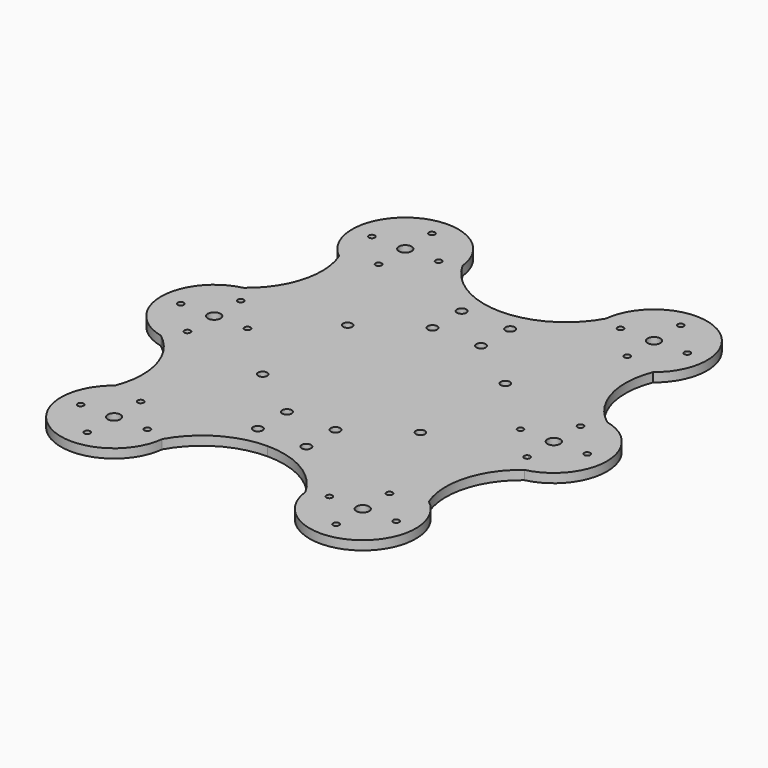
from build123d import *

# Parameters (mm, degrees)
SKETCH001_R             = 2.1
SKETCH001_R_2           = 1
SKETCH001_R_3           = 1.55
SKETCH001_R_4           = 1.5
PAD001_DEPTH            = 3
BODY001_PLACEMENT_ANGLE = 180
SKETCH_R                = 2.1
SKETCH_R_2              = 1
SKETCH_R_3              = 1.55
SKETCH_R_4              = 1.5
PAD_DEPTH               = 3


with BuildPart() as body001:
    # Sketch001 → Pad001 (new body)
    with BuildSketch(Plane.XY):
        with BuildLine():
            ThreePointArc((59.929397, -17.053147), (73.5, 0), (59.929397, 17.053147))
            ThreePointArc((51.751169, 46.191946), (50.930057, 30.24442), (59.929397, 17.053147))
            ThreePointArc((51.751169, 46.191946), (49.522386, 75.284598), (23.602068, 61.88732))
            ThreePointArc((0, 48), (13.692291, 51.729393), (23.602068, 61.88732))
            Line((0, 48), (0, -48))
            ThreePointArc((23.602068, -61.88732), (13.692291, -51.729393), (0, -48))
            ThreePointArc((23.602068, -61.88732), (49.522386, -75.284598), (51.751169, -46.191946))
            ThreePointArc((59.929397, -17.053147), (50.930057, -30.24442), (51.751169, -46.191946))
        make_face()
        with Locations((41, 60)):
            Circle(SKETCH001_R, mode=Mode.SUBTRACT)
        with Locations((56, 0)):
            Circle(SKETCH001_R, mode=Mode.SUBTRACT)
        with Locations((41, -60)):
            Circle(SKETCH001_R, mode=Mode.SUBTRACT)
        with Locations((41, 71)):
            Circle(SKETCH001_R_2, mode=Mode.SUBTRACT)
        with Locations((41, 49)):
            Circle(SKETCH001_R_2, mode=Mode.SUBTRACT)
        with Locations((52, 60)):
            Circle(SKETCH001_R_2, mode=Mode.SUBTRACT)
        with Locations((30, 60)):
            Circle(SKETCH001_R_2, mode=Mode.SUBTRACT)
        with Locations((56, 11)):
            Circle(SKETCH001_R_2, mode=Mode.SUBTRACT)
        with Locations((56, -11)):
            Circle(SKETCH001_R_2, mode=Mode.SUBTRACT)
        with Locations((67, 0)):
            Circle(SKETCH001_R_2, mode=Mode.SUBTRACT)
        with Locations((45, 0)):
            Circle(SKETCH001_R_2, mode=Mode.SUBTRACT)
        with Locations((41, -49)):
            Circle(SKETCH001_R_2, mode=Mode.SUBTRACT)
        with Locations((41, -71)):
            Circle(SKETCH001_R_2, mode=Mode.SUBTRACT)
        with Locations((52, -60)):
            Circle(SKETCH001_R_2, mode=Mode.SUBTRACT)
        with Locations((30, -60)):
            Circle(SKETCH001_R_2, mode=Mode.SUBTRACT)
        with Locations((8, -42)):
            Circle(SKETCH001_R_3, mode=Mode.SUBTRACT)
        with Locations((8, -30)):
            Circle(SKETCH001_R_3, mode=Mode.SUBTRACT)
        with Locations((8, 30)):
            Circle(SKETCH001_R_3, mode=Mode.SUBTRACT)
        with Locations((8, 42)):
            Circle(SKETCH001_R_3, mode=Mode.SUBTRACT)
        with Locations((26, 17.5)):
            Circle(SKETCH001_R_4, mode=Mode.SUBTRACT)
        with Locations((26, -17.5)):
            Circle(SKETCH001_R_4, mode=Mode.SUBTRACT)
    extrude(amount=PAD001_DEPTH)


with BuildPart() as body001_1:
    # Body001 placement: moved
    add(body001.part.rotate(Axis((0, 0, 0), (0, 0, 1)), BODY001_PLACEMENT_ANGLE))


with BuildPart() as fusion:
    # Sketch → Pad (new body)
    with BuildSketch(Plane.XY):
        with BuildLine():
            ThreePointArc((59.929397, -17.053147), (73.5, 0), (59.929397, 17.053147))
            ThreePointArc((51.751169, 46.191946), (50.930057, 30.24442), (59.929397, 17.053147))
            ThreePointArc((51.751169, 46.191946), (49.522386, 75.284598), (23.602068, 61.88732))
            ThreePointArc((0, 48), (13.692291, 51.729393), (23.602068, 61.88732))
            Line((0, 48), (0, -48))
            ThreePointArc((23.602068, -61.88732), (13.692291, -51.729393), (0, -48))
            ThreePointArc((23.602068, -61.88732), (49.522386, -75.284598), (51.751169, -46.191946))
            ThreePointArc((59.929397, -17.053147), (50.930057, -30.24442), (51.751169, -46.191946))
        make_face()
        with Locations((41, 60)):
            Circle(SKETCH_R, mode=Mode.SUBTRACT)
        with Locations((56, 0)):
            Circle(SKETCH_R, mode=Mode.SUBTRACT)
        with Locations((41, -60)):
            Circle(SKETCH_R, mode=Mode.SUBTRACT)
        with Locations((41, 71)):
            Circle(SKETCH_R_2, mode=Mode.SUBTRACT)
        with Locations((41, 49)):
            Circle(SKETCH_R_2, mode=Mode.SUBTRACT)
        with Locations((52, 60)):
            Circle(SKETCH_R_2, mode=Mode.SUBTRACT)
        with Locations((30, 60)):
            Circle(SKETCH_R_2, mode=Mode.SUBTRACT)
        with Locations((56, 11)):
            Circle(SKETCH_R_2, mode=Mode.SUBTRACT)
        with Locations((56, -11)):
            Circle(SKETCH_R_2, mode=Mode.SUBTRACT)
        with Locations((67, 0)):
            Circle(SKETCH_R_2, mode=Mode.SUBTRACT)
        with Locations((45, 0)):
            Circle(SKETCH_R_2, mode=Mode.SUBTRACT)
        with Locations((41, -49)):
            Circle(SKETCH_R_2, mode=Mode.SUBTRACT)
        with Locations((41, -71)):
            Circle(SKETCH_R_2, mode=Mode.SUBTRACT)
        with Locations((52, -60)):
            Circle(SKETCH_R_2, mode=Mode.SUBTRACT)
        with Locations((30, -60)):
            Circle(SKETCH_R_2, mode=Mode.SUBTRACT)
        with Locations((8, -42)):
            Circle(SKETCH_R_3, mode=Mode.SUBTRACT)
        with Locations((8, -30)):
            Circle(SKETCH_R_3, mode=Mode.SUBTRACT)
        with Locations((8, 30)):
            Circle(SKETCH_R_3, mode=Mode.SUBTRACT)
        with Locations((8, 42)):
            Circle(SKETCH_R_3, mode=Mode.SUBTRACT)
        with Locations((26, 17.5)):
            Circle(SKETCH_R_4, mode=Mode.SUBTRACT)
        with Locations((26, -17.5)):
            Circle(SKETCH_R_4, mode=Mode.SUBTRACT)
    extrude(amount=PAD_DEPTH)

    # Fusion: union Body001
    add(body001_1.part)


solid = fusion.part
